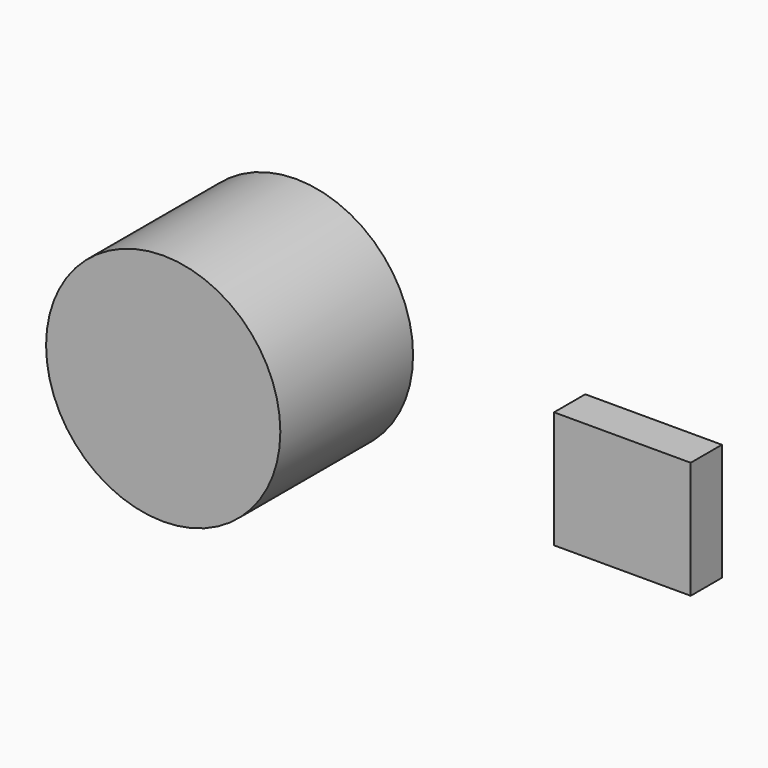
from build123d import *

# Parameters (mm, degrees)
F0_R     = 76.2
F1_DEPTH = 107.95
F2_W     = 88.9
F2_H     = 76.2
F3_DEPTH = 25.4


with BuildPart() as f1:
    # F0 (on Front) → F1 (new body)
    with BuildSketch(Plane.XZ):
        Circle(F0_R)
    extrude(amount=F1_DEPTH)


with BuildPart() as f3:
    # F2 (on Front) → F3 (new body)
    with BuildSketch(Plane.XZ):
        with Locations((232.677229, -24.038289)):
            Rectangle(F2_W, F2_H)
    extrude(amount=F3_DEPTH)


solid = Compound([f1.part, f3.part])
